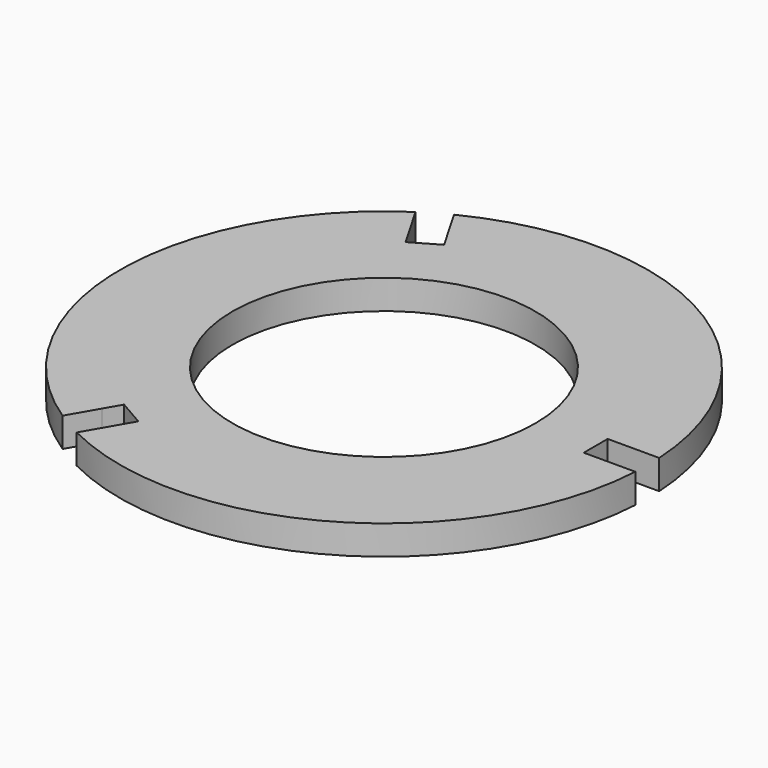
from build123d import *

# Parameters (mm, degrees)
F0_R     = 15.5
F1_DEPTH = 3


with BuildPart() as f1:
    # F0 (on Top) → F1 (new body)
    with BuildSketch(Plane.XY):
        with BuildLine():
            Line((-12.191516, 18.00094), (-14.826516, 22.564894))
            ThreePointArc((-14.826516, 22.564894), (-27, 0), (-14.826516, -22.564894))
            Line((-14.826516, -22.564894), (-13.134552, -19.634327))
            Line((-13.134552, -19.634327), (-12.186793, -17.992759))
            Line((-12.186793, -17.992759), (-9.48879, -19.550452))
            Line((-9.48879, -19.550452), (-12.128513, -24.122586))
            ThreePointArc((-12.128513, -24.122586), (13.5, -23.382686), (26.955029, -1.557692))
            Line((26.955029, -1.557692), (21.685029, -1.557692))
            Line((21.685029, -1.557692), (21.685029, 0.020192))
            Line((21.685029, 0.020192), (21.685029, 1.5))
            Line((21.685029, 1.5), (23.107925, 1.5))
            Line((23.107925, 1.5), (26.958301, 1.5))
            ThreePointArc((26.958301, 1.5), (13.525014, 23.368226), (-12.128513, 24.122586))
            Line((-12.128513, 24.122586), (-11.3524, 22.778317))
            Line((-11.3524, 22.778317), (-9.493513, 19.558632))
            Line((-9.493513, 19.558632), (-12.191516, 18.00094))
        make_face()
        Circle(F0_R, mode=Mode.SUBTRACT)
    extrude(amount=F1_DEPTH)


solid = f1.part
